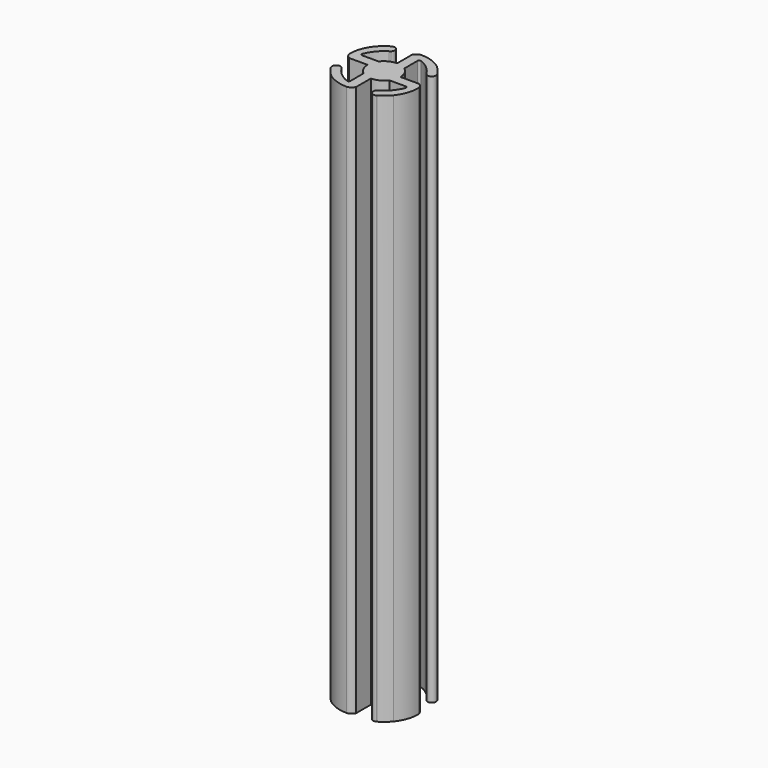
from build123d import *

# Parameters (mm, degrees)
F1_DEPTH = 33.5


with BuildPart() as f1:
    # F0 (on Top) → F1 (new body)
    with BuildSketch(Plane.XY):
        with BuildLine():
            Line((29.94595, -20.611431), (31.05914, -20.611431))
            ThreePointArc((31.05914, -20.611431), (31.165654, -21.060523), (31.462508, -21.413946))
            Line((31.462508, -21.413946), (31.462508, -22.412999))
            ThreePointArc((31.462508, -22.412999), (31.419048, -22.495481), (31.326442, -22.506268))
            ThreePointArc((31.326442, -22.506268), (30.768165, -22.180073), (30.340659, -21.69498))
            ThreePointArc((30.340659, -21.69498), (30.315465, -21.653954), (30.291251, -21.612342))
            ThreePointArc((30.291251, -21.612342), (29.946997, -21.569618), (29.86218, -21.905984))
            ThreePointArc((29.86218, -21.905984), (29.870461, -21.919935), (29.87883, -21.933833))
            ThreePointArc((29.87883, -21.933833), (30.109494, -22.255018), (30.38704, -22.53668))
            ThreePointArc((30.38704, -22.53668), (31.003517, -22.873177), (31.695966, -22.990602))
            ThreePointArc((31.695966, -22.990602), (31.914277, -22.907755), (32.05914, -22.72462))
            Line((32.05914, -22.72462), (32.05914, -21.611431))
            ThreePointArc((32.05914, -21.611431), (32.508232, -21.504916), (32.861655, -21.208062))
            Line((32.861655, -21.208062), (33.860708, -21.208062))
            ThreePointArc((33.860708, -21.208062), (33.94319, -21.251523), (33.953977, -21.344128))
            ThreePointArc((33.953977, -21.344128), (33.627782, -21.902405), (33.142689, -22.329911))
            ThreePointArc((33.142689, -22.329911), (33.101663, -22.355105), (33.060051, -22.37932))
            ThreePointArc((33.060051, -22.37932), (33.017327, -22.723574), (33.353693, -22.80839))
            ThreePointArc((33.353693, -22.80839), (33.367644, -22.80011), (33.381542, -22.79174))
            ThreePointArc((33.381542, -22.79174), (33.702727, -22.561077), (33.984389, -22.28353))
            ThreePointArc((33.984389, -22.28353), (34.320886, -21.667053), (34.438311, -20.974605))
            ThreePointArc((34.438311, -20.974605), (34.355464, -20.756293), (34.172329, -20.611431))
            Line((34.172329, -20.611431), (33.05914, -20.611431))
            ThreePointArc((33.05914, -20.611431), (32.952625, -20.162338), (32.655771, -19.808915))
            Line((32.655771, -19.808915), (32.655771, -18.809863))
            ThreePointArc((32.655771, -18.809863), (32.699232, -18.727381), (32.791837, -18.716593))
            ThreePointArc((32.791837, -18.716593), (33.350114, -19.042788), (33.777621, -19.527881))
            ThreePointArc((33.777621, -19.527881), (33.802814, -19.568907), (33.827029, -19.610519))
            ThreePointArc((33.827029, -19.610519), (34.171283, -19.653243), (34.256099, -19.316877))
            ThreePointArc((34.256099, -19.316877), (34.247819, -19.302926), (34.23945, -19.289028))
            ThreePointArc((34.23945, -19.289028), (34.008786, -18.967843), (33.731239, -18.686181))
            ThreePointArc((33.731239, -18.686181), (33.114763, -18.349684), (32.422314, -18.232259))
            ThreePointArc((32.422314, -18.232259), (32.204002, -18.315107), (32.05914, -18.498241))
            Line((32.05914, -18.498241), (32.05914, -19.611431))
            ThreePointArc((32.05914, -19.611431), (31.610047, -19.717945), (31.256624, -20.014799))
            Line((31.256624, -20.014799), (30.257572, -20.014799))
            ThreePointArc((30.257572, -20.014799), (30.17509, -19.971339), (30.164302, -19.878733))
            ThreePointArc((30.164302, -19.878733), (30.490497, -19.320456), (30.97559, -18.89295))
            ThreePointArc((30.97559, -18.89295), (31.016617, -18.867756), (31.058228, -18.843542))
            ThreePointArc((31.058228, -18.843542), (31.100953, -18.499287), (30.764586, -18.414471))
            ThreePointArc((30.764586, -18.414471), (30.750635, -18.422752), (30.736737, -18.431121))
            ThreePointArc((30.736737, -18.431121), (30.415552, -18.661785), (30.133891, -18.939331))
            ThreePointArc((30.133891, -18.939331), (29.797393, -19.555808), (29.679968, -20.248257))
            ThreePointArc((29.679968, -20.248257), (29.762816, -20.466568), (29.94595, -20.611431))
        make_face()
    extrude(amount=F1_DEPTH)


solid = f1.part
